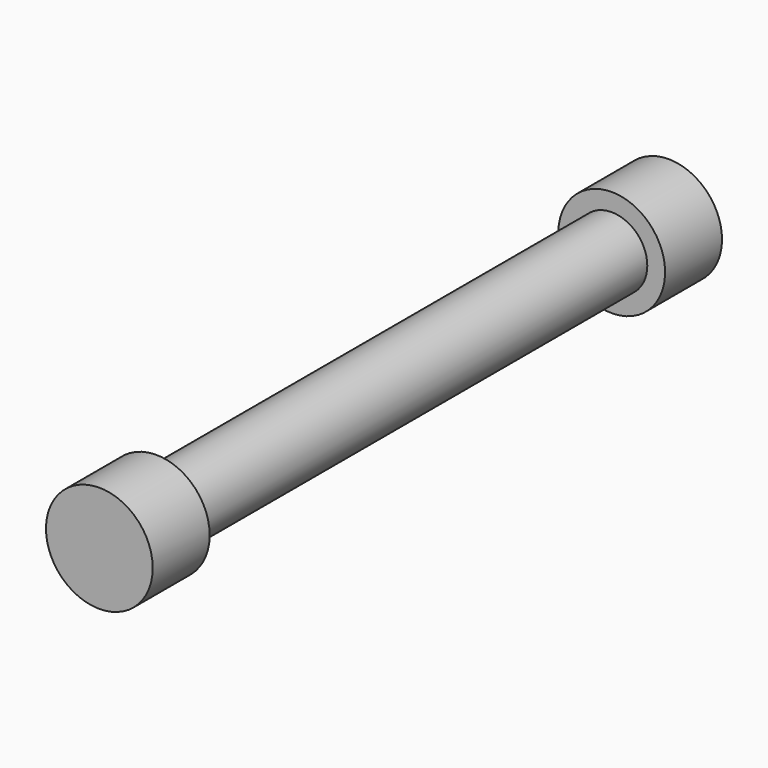
from build123d import *

# Parameters (mm, degrees)
F0_R     = 6.35
F1_DEPTH = 63.5
F3_R     = 9.525
F3_R_2   = 6.35
F4_DEPTH = 12.7
F2_R     = 9.525
F2_R_2   = 6.35
F5_DEPTH = 12.7


with BuildPart() as f1:
    # F0 (on Front) → F1 (new body, symmetric)
    with BuildSketch(Plane.XZ):
        Circle(F0_R)
    extrude(amount=F1_DEPTH, both=True)

    # F3 (on face) → F4 (join)
    with BuildSketch(Plane(origin=(0, 63.5, 0), x_dir=(-1, 0, 0), z_dir=(0, 1, 0))):
        Circle(F3_R)
        Circle(F3_R_2, mode=Mode.SUBTRACT)
    extrude(amount=-F4_DEPTH)

    # F2 (on face) → F5 (join)
    with BuildSketch(Plane.XZ.offset(63.5)):
        Circle(F2_R)
        Circle(F2_R_2, mode=Mode.SUBTRACT)
    extrude(amount=-F5_DEPTH)


solid = f1.part
